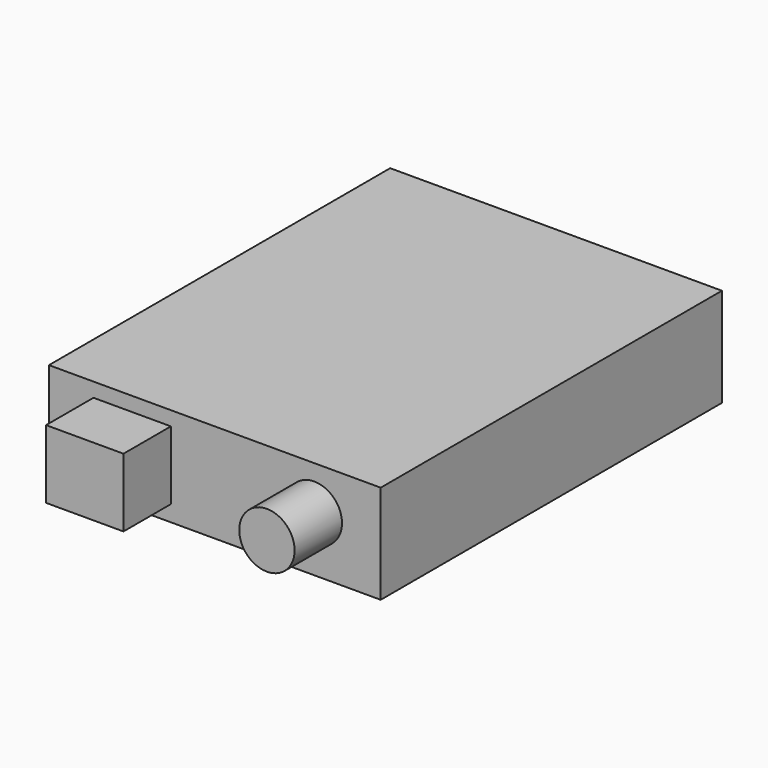
from build123d import *

# Parameters (mm, degrees)
F0_W     = 53.34
F0_H     = 68.58
F1_DEPTH = 15.875
F2_W     = 12.443692
F2_H     = 11.007975
F2_R     = 4.449161
F3_DEPTH = 9.525


with BuildPart() as f1:
    # F0 (on Top) → F1 (new body)
    with BuildSketch(Plane.XY):
        with Locations((26.67, 34.29)):
            Rectangle(F0_W, F0_H)
    extrude(amount=F1_DEPTH)

    # F2 (on face) → F3 (join)
    with BuildSketch(Plane.XZ):
        with Locations((13.379577, 8.078674)):
            Rectangle(F2_W, F2_H)
        with Locations((42.665571, 8.831811)):
            Circle(F2_R)
    extrude(amount=F3_DEPTH)


solid = f1.part
